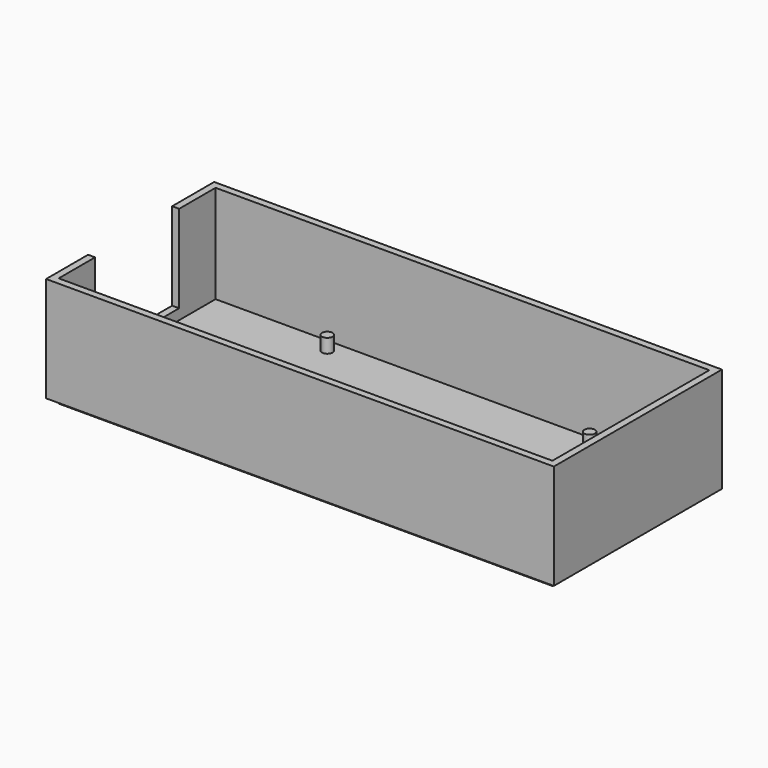
from build123d import *

# Parameters (mm, degrees)
SKETCH_W        = 145
SKETCH_H        = 60
PAD_DEPTH       = 30
THICKNESS_T     = -2
SKETCH001_W     = 141
SKETCH001_H     = 56
PAD001_DEPTH    = 1.5
SKETCH002_W     = 30
SKETCH002_H     = 25
POCKET_DEPTH    = 2
SKETCH003_W     = 5
SKETCH003_H     = 30
POCKET001_DEPTH = 3.5
SKETCH004_R     = 1.5
PAD002_DEPTH    = 4


with BuildPart() as part:
    # Sketch → Pad (new body)
    with BuildSketch(Plane.XY):
        Rectangle(SKETCH_W, SKETCH_H)
    extrude(amount=PAD_DEPTH)

    # Thickness
    thickness_openings = [part.faces().sort_by_distance(p)[0] for p in [
        (0, 0, 30),
    ]]
    offset(amount=THICKNESS_T, openings=thickness_openings, kind=Kind.INTERSECTION)

    # Sketch001 (on Face5 of Thickness) → Pad001 (join)
    with BuildSketch(Plane(origin=(0, 0, 0), x_dir=(1, 0, 0), z_dir=(0, 0, -1))):
        Rectangle(SKETCH001_W, SKETCH001_H)
    extrude(amount=PAD001_DEPTH)

    # Sketch002 (on Face2 of Pad001) → Pocket (cut)
    with BuildSketch(Plane(origin=(-72.5, 0, 0), x_dir=(0, -1, 0), z_dir=(-1, 0, 0))):
        with Locations((0, 17.5)):
            Rectangle(SKETCH002_W, SKETCH002_H)
    extrude(amount=-POCKET_DEPTH, mode=Mode.SUBTRACT)

    # Sketch003 (on Face19 of Pocket) → Pocket001 (cut)
    with BuildSketch(Plane.XY.offset(2)):
        with Locations((57.5, 0)):
            Rectangle(SKETCH003_W, SKETCH003_H)
    extrude(amount=-POCKET001_DEPTH, mode=Mode.SUBTRACT)

    # Sketch004 (on Face19 of Pocket001) → Pad002 (join)
    with BuildSketch(Plane.XY.offset(2)):
        with Locations((-35.5, 24.15)):
            Circle(SKETCH004_R)
        with Locations((-36.8, -24.15)):
            Circle(SKETCH004_R)
        with Locations((39.4, 24.15)):
            Circle(SKETCH004_R)
        with Locations((15.3, -19.05)):
            Circle(SKETCH004_R)
    extrude(amount=PAD002_DEPTH)


solid = part.part
